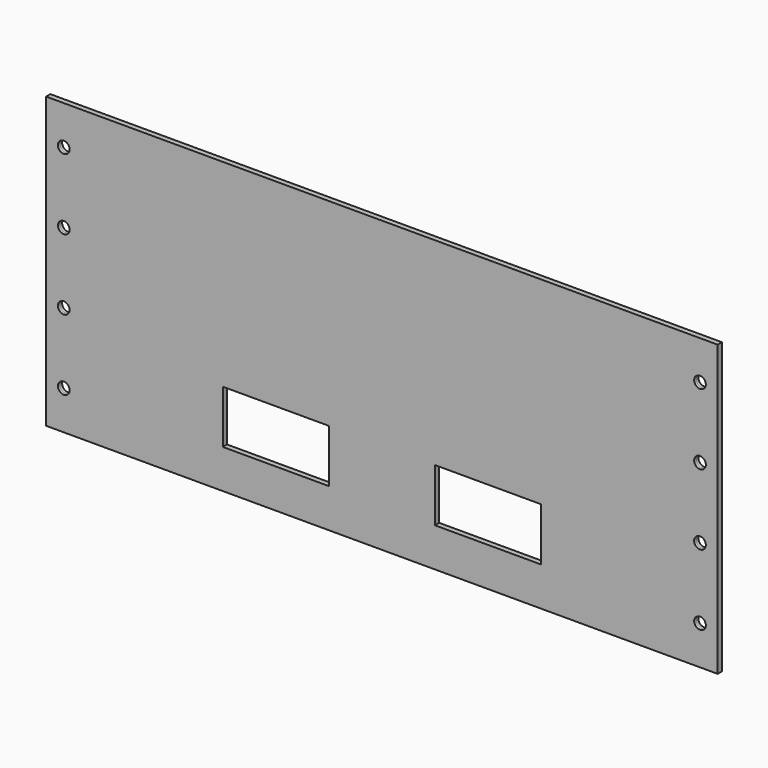
from build123d import *

# Parameters (mm, degrees)
SKETCH_W       = 190
SKETCH_H       = 82
SKETCH_R       = 1.65
PAD_DEPTH      = 0.75
PAD_DEPTH_BACK = 0.75
SKETCH001_W    = 30
SKETCH001_H    = 15
POCKET_DEPTH   = 5


with BuildPart() as part:
    # Sketch → Pad (new body, two sides)
    with BuildSketch(Plane.XZ) as pad_sk:
        Rectangle(SKETCH_W, SKETCH_H)
        with Locations((90, 30)):
            Circle(SKETCH_R, mode=Mode.SUBTRACT)
        with Locations((90, 10)):
            Circle(SKETCH_R, mode=Mode.SUBTRACT)
        with Locations((90, -30)):
            Circle(SKETCH_R, mode=Mode.SUBTRACT)
        with Locations((90, -10)):
            Circle(SKETCH_R, mode=Mode.SUBTRACT)
        with Locations((-90, 30)):
            Circle(SKETCH_R, mode=Mode.SUBTRACT)
        with Locations((-90, 10)):
            Circle(SKETCH_R, mode=Mode.SUBTRACT)
        with Locations((-90, -30)):
            Circle(SKETCH_R, mode=Mode.SUBTRACT)
        with Locations((-90, -10)):
            Circle(SKETCH_R, mode=Mode.SUBTRACT)
    extrude(amount=PAD_DEPTH)
    extrude(pad_sk.sketch, amount=-PAD_DEPTH_BACK)

    # Sketch001 (on Face14 of Pad) → Pocket (cut)
    with BuildSketch(Plane.XZ.offset(0.75)):
        with Locations((-30, -22.5)):
            Rectangle(SKETCH001_W, SKETCH001_H)
        with Locations((30, -22.5)):
            Rectangle(SKETCH001_W, SKETCH001_H)
    extrude(amount=-POCKET_DEPTH, mode=Mode.SUBTRACT)


solid = part.part
